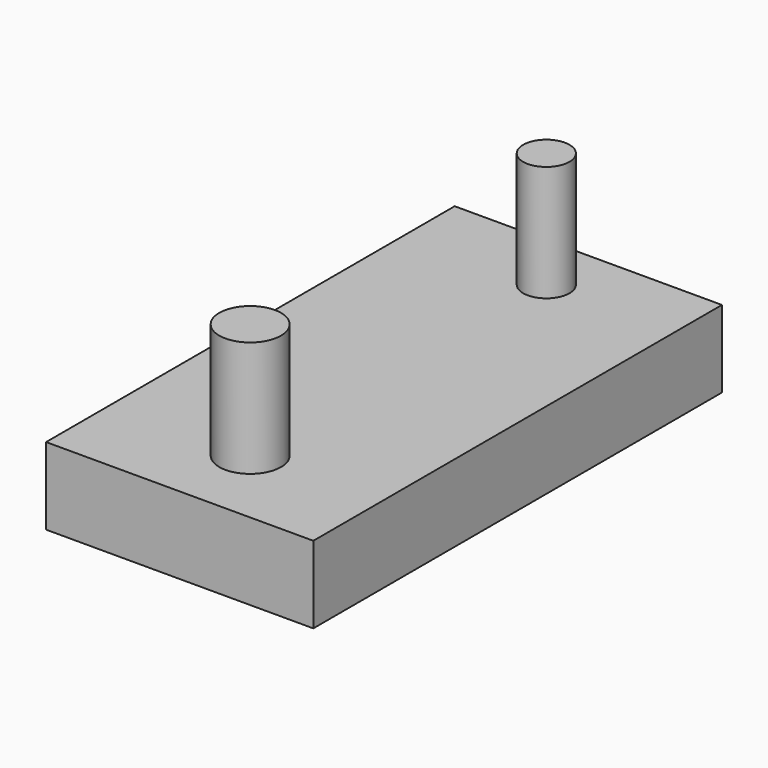
from build123d import *

# Parameters (mm, degrees)
F0_R     = 3
F0_R_2   = 4
F0_W     = 34.64702
F0_H     = 66.217336
F1_DEPTH = 10
F2_DEPTH = 25


with BuildPart() as f1:
    # F0 (on Top) → F1 (new body)
    with BuildSketch(Plane.XY):
        with Locations((0, 33.190547)):
            Circle(F0_R)
        with Locations((0, -14.809453)):
            Circle(F0_R_2)
        with Locations((-0.674895, 7.725617)):
            Rectangle(F0_W, F0_H)
        with Locations((0, -14.809453)):
            Circle(F0_R_2, mode=Mode.SUBTRACT)
        with Locations((0, 33.190547)):
            Circle(F0_R, mode=Mode.SUBTRACT)
    extrude(amount=F1_DEPTH)

    # F0 (on Top) → F2 (join)
    with BuildSketch(Plane.XY):
        with Locations((0, -14.809453)):
            Circle(F0_R_2)
        with Locations((0, 33.190547)):
            Circle(F0_R)
    extrude(amount=F2_DEPTH)


solid = f1.part
